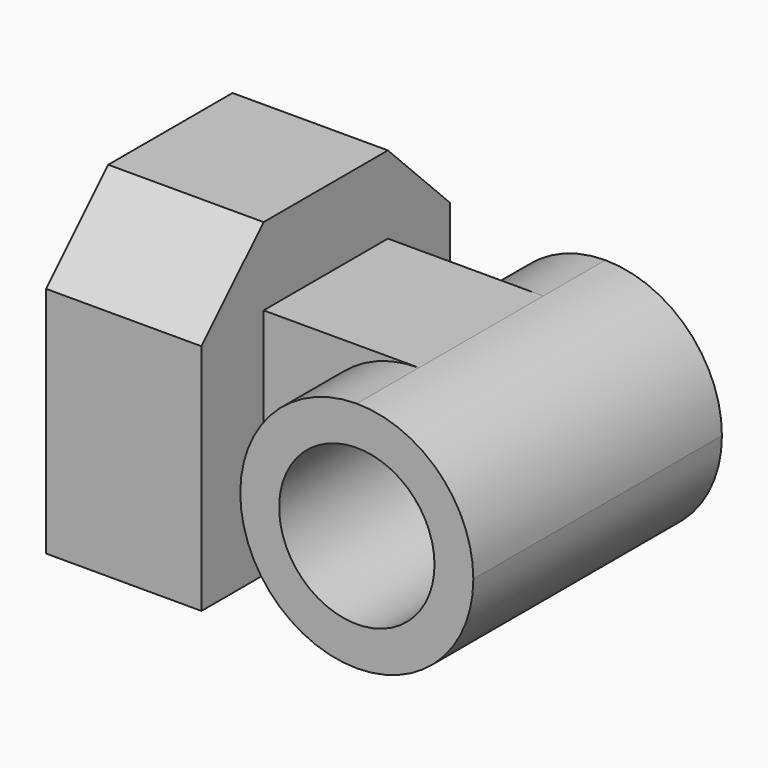
from build123d import *

# Parameters (mm, degrees)
F1_R     = 6.35
F2_DEPTH = 12.7
F3_DEPTH = 6.35
F4_DEPTH = 12.7


with BuildPart() as f2:
    # F1 (on Front) → F2 (new body, symmetric)
    with BuildSketch(Plane.XZ):
        with BuildLine():
            ThreePointArc((25.4, 19.05), (15.875, 9.525), (25.4, 0))
            ThreePointArc((25.4, 0), (32.135192, 2.789808), (34.925, 9.525))
            ThreePointArc((34.925, 9.525), (32.135192, 16.260192), (25.4, 19.05))
        make_face()
        with Locations((25.4, 9.525)):
            Circle(F1_R, mode=Mode.SUBTRACT)
    extrude(amount=F2_DEPTH, both=True)

    # F1 (on Front) → F3 (join, symmetric)
    with BuildSketch(Plane.XZ):
        with BuildLine():
            Line((0, 19.05), (0, 0))
            Line((0, 0), (25.4, 0))
            ThreePointArc((25.4, 0), (15.875, 9.525), (25.4, 19.05))
            Line((25.4, 19.05), (0, 19.05))
        make_face()
    extrude(amount=F3_DEPTH, both=True)

    # F0 (on Right) → F4 (join)
    with BuildSketch(Plane.YZ):
        Polygon((-12.7, 19.05), (-12.7, 0), (0, 0), (12.7, 0), (12.7, 19.05), (6.35, 25.4), (-6.35, 25.4), align=None)
    extrude(amount=F4_DEPTH)


solid = f2.part
